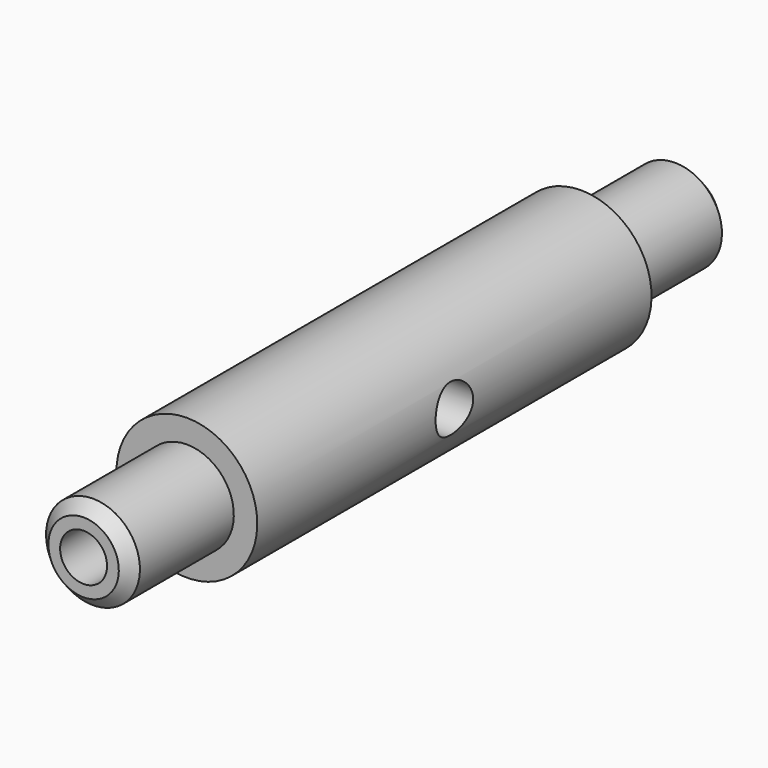
from build123d import *

# Parameters (mm, degrees)
F0_W     = 17.4625
F0_H     = 3.175
F2_W     = 13.680584
F2_H     = 12.9563
F3_DEPTH = 0.014764
F4_R     = 3.175
F5_DEPTH = 25.4
F6_SIZE2 = 1.5875
F6_SIZE  = 1.5875


with BuildPart() as f1:
    # F0 (on Right) → F1 (revolve)
    with BuildSketch(Plane.YZ):
        with Locations((-1.412255, 4.7625)):
            Rectangle(F0_W, F0_H)
        Polygon((7.318995, 6.35), (7.318995, 3.175), (47.006495, 3.175), (91.456495, 3.175), (91.456495, 6.35), (73.993995, 6.35), (73.993995, 9.525), (7.318995, 9.525), align=None)
    revolve(axis=Axis((0, 40.656495, 0), (0, 1, 0)))

    # F4 (on face) → F5 (cut)
    with BuildSketch(Plane.YZ.offset(9.525)):
        with Locations((40.656495, 0)):
            Circle(F4_R)
    extrude(amount=-F5_DEPTH, mode=Mode.SUBTRACT)

    # F6
    f6_edges = [f1.edges().sort_by_distance(p)[0] for p in [
        (0, -10.143505, -6.35),
        (0, 91.456495, -6.35),
    ]]
    chamfer(f6_edges, length=F6_SIZE, length2=F6_SIZE2)


with BuildPart() as f3:
    # F2 (on Right) → F3 (new body)
    with BuildSketch(Plane.YZ):
        with Locations((-37.624579, 0)):
            Rectangle(F2_W, F2_H)
    extrude(amount=F3_DEPTH)


solid = f1.part
